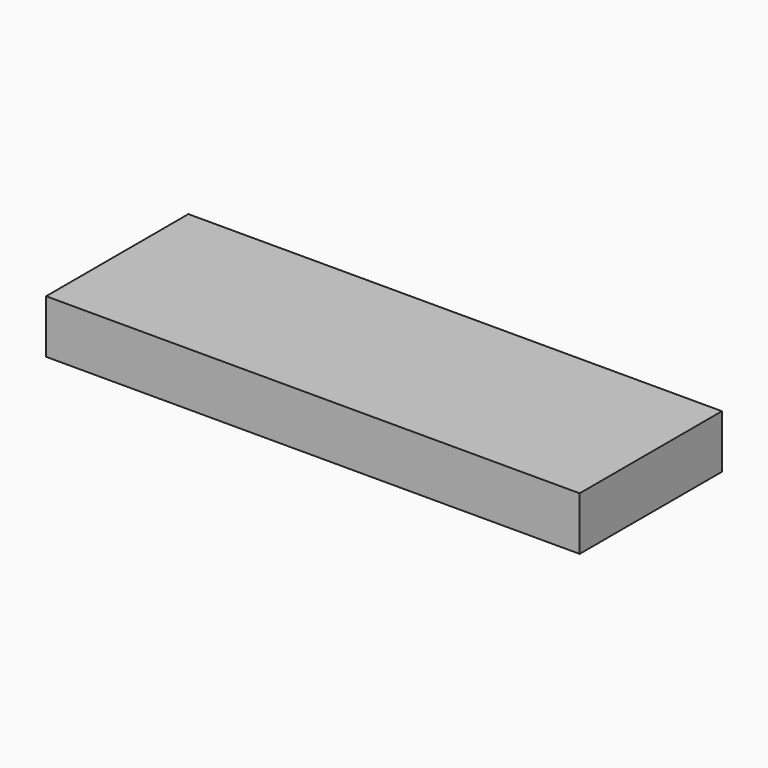
from build123d import *

# Parameters (mm, degrees)
SKETCH_W  = 120
SKETCH_H  = 40
PAD_DEPTH = 12


with BuildPart() as part:
    # Sketch → Pad (new body)
    with BuildSketch(Plane.XY):
        Rectangle(SKETCH_W, SKETCH_H)
    extrude(amount=PAD_DEPTH)


solid = part.part
